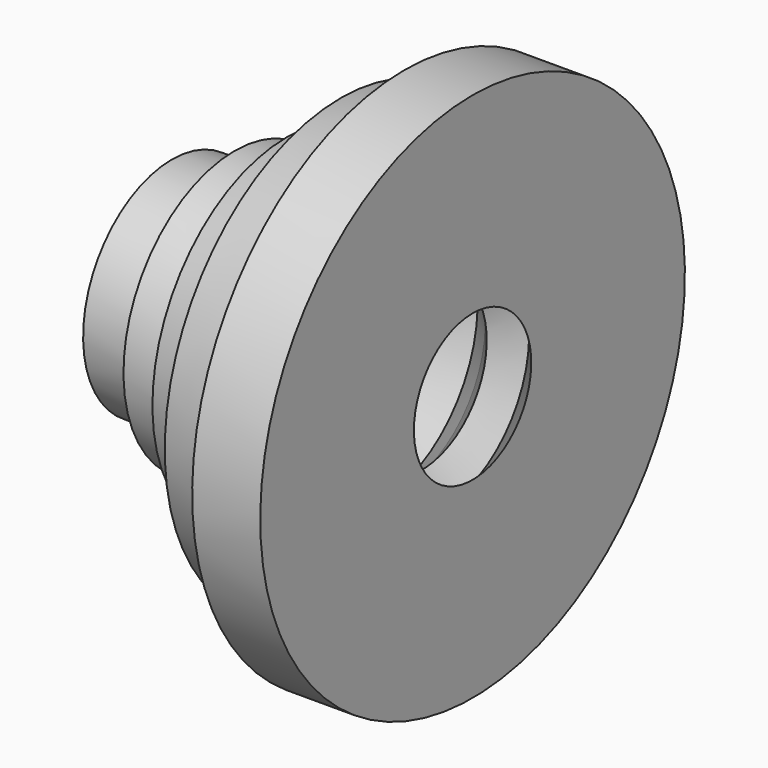
from build123d import *


with BuildPart() as f1:
    # F0 (on Front) → F1 (revolve)
    with BuildSketch(Plane.XZ):
        Polygon((-7.515712, 26.323638), (0, 17.549092), (0, 63.5), (-16.29026, 63.5), (-20.677529, 54.725454), (-31.530255, 52.647272), (-31.530255, 43.180002), (-44.461169, 40.178182), (-47.001168, 33.250912), (-56.930259, 33.250912), (-59.239348, 26.554546), (-71.939348, 26.554546), (-71.939348, 12.7), (-48.61753, 12.7), (-39.381167, 21.705455), (-32.684803, 18.472729), (-22.750929, 29.951872), (-16.839969, 24.836618), (-12.133895, 19.396364), align=None)
    revolve(axis=Axis((-59.888094, 0, 0), (-1, 0, 0)))


solid = f1.part
